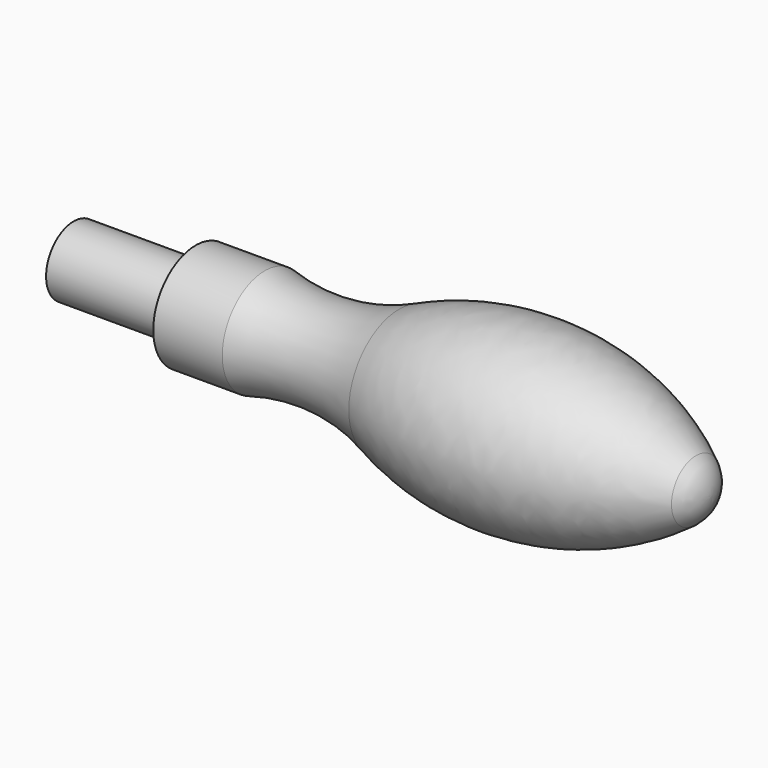
from build123d import *

# Parameters (mm, degrees)
F0_W = 23
F0_H = 6.5


with BuildPart() as f1:
    # F0 (on Top) → F1 (revolve)
    with BuildSketch(Plane.XY):
        with BuildLine():
            Line((-61, 0), (-61, -6.5))
            Line((-61, -6.5), (-61, -10))
            Line((-61, -10), (-48, -10))
            ThreePointArc((-48, -10), (-35.155125, -8.767246), (-22.638298, -11.904051))
            ThreePointArc((-22.638298, -11.904051), (6.129777, -16.34737), (33.24159, -5.750445))
            ThreePointArc((33.24159, -5.750445), (35.378368, -3.221045), (36.145537, 0))
            Line((36.145537, 0), (-61, 0))
        make_face()
    revolve(axis=Axis((-4.224361, 0, 0), (1, 0, 0)))

    # F0 (on Top) → F2 (revolve)
    with BuildSketch(Plane.XY):
        with Locations((-72.5, -3.25)):
            Rectangle(F0_W, F0_H)
    revolve(axis=Axis((-4.224361, 0, 0), (1, 0, 0)))


solid = f1.part
